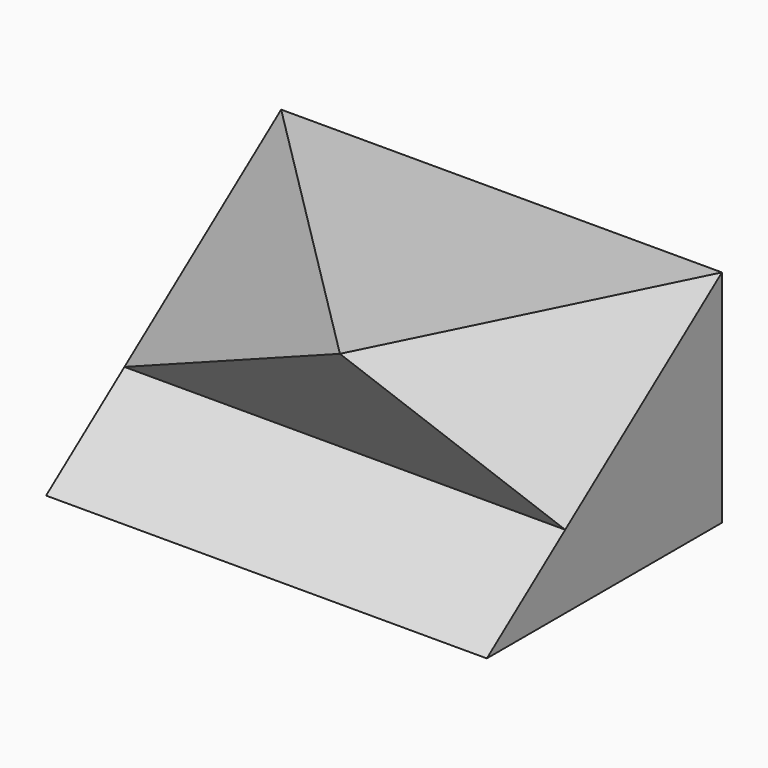
from build123d import *

# Parameters (mm, degrees)
F0_W      = 6
F0_H      = 4
F1_DEPTH  = 3
F3_DEPTH  = 6
F7_DEPTH  = 25
F10_DEPTH = 25


with BuildPart() as f1:
    # F0 (on Top) → F1 (new body)
    with BuildSketch(Plane.XY):
        with Locations((3, 2)):
            Rectangle(F0_W, F0_H)
    extrude(amount=F1_DEPTH)

    # F2 (on face) → F3 (cut)
    with BuildSketch(Plane.YZ.offset(6)):
        Polygon((0, 3), (0, 0), (1.3333333333, 1), align=None)
    extrude(amount=-F3_DEPTH, mode=Mode.SUBTRACT)

    # F6 (on 3pt) → F7 (cut)
    with BuildSketch(Plane(origin=(0, 0, 0), x_dir=(0.8574929257, -0.3086974533, 0.4115966043), z_dir=(-0.5144957554, -0.5144957554, 0.6859943406))):
        Polygon((9.8441252485, 6.5278601833), (-4.6357093379, 5.8104698546), (-5.503593944, -1.5349624446), (8.062466979, -1.5349624446), align=None)
    extrude(amount=F7_DEPTH, mode=Mode.SUBTRACT)

    # F9 (on 3pt) → F10 (cut)
    with BuildSketch(Plane(origin=(3.5409836066, -1.7704918033, 2.3606557377), x_dir=(0.3195993709, 0.9232870715, 0.2130662473), z_dir=(0.7682212796, -0.3841106398, 0.5121475197))):
        Polygon((12.3663526028, -1.9071685383), (-0.4412117123, 3.9235553704), (-3.5908352584, -2.3459291551), (9.8697831854, -6.3195335679), align=None)
    extrude(amount=F10_DEPTH, mode=Mode.SUBTRACT)


solid = f1.part
